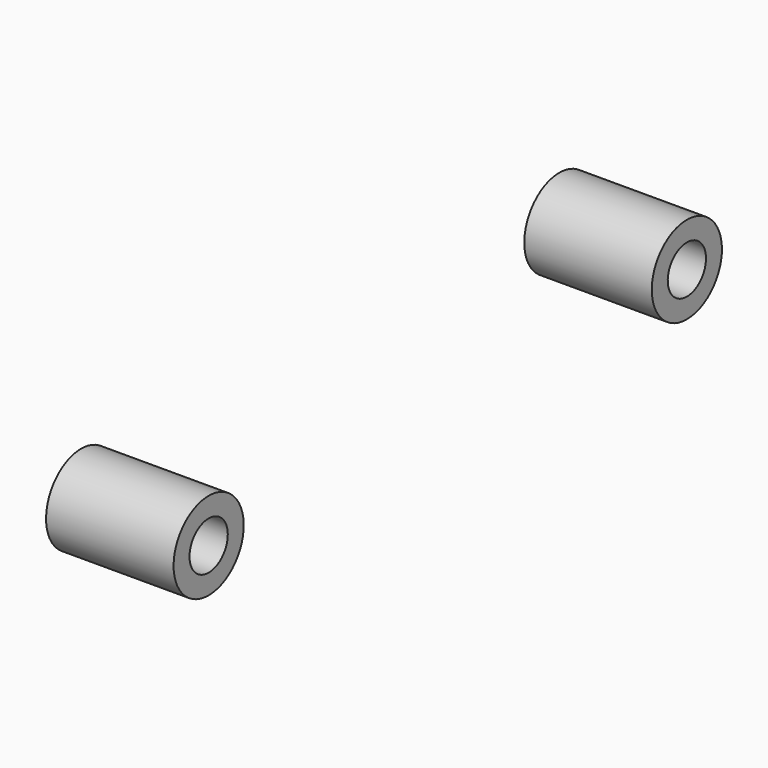
from build123d import *

# Parameters (mm, degrees)
CEN_LM12UU_0_INT_R           = 6
CEN_LM12UU_0_INT_DEPTH       = 34
CEN_LM12UU_0_INT_PITCH_ANGLE = 90
CEN_LM12UU_0_EXT_R           = 11
CEN_LM12UU_0_EXT_DEPTH       = 32
CEN_LM12UU_0_EXT_PITCH_ANGLE = 90


with BuildPart() as cen_lm12uu_0_int:
    # cen_lm12uu_0_int → cen_lm12uu_0_int (new body)
    with BuildSketch(Plane.XY):
        Circle(CEN_LM12UU_0_INT_R)
    extrude(amount=CEN_LM12UU_0_INT_DEPTH)


with BuildPart() as cen_lm12uu_0_int_1:
    # cen_lm12uu_0_int pitch: moved
    add(cen_lm12uu_0_int.part.rotate(Axis((0, 0, 0), (0, 1, 0)), CEN_LM12UU_0_INT_PITCH_ANGLE))


with BuildPart() as cen_lm12uu_0_int_2:
    # cen_lm12uu_0_int placement: moved
    add(cen_lm12uu_0_int_1.part.moved(Location((-17, 0, 0))))


with BuildPart() as cen_lm12uu_0_body:
    # cen_lm12uu_0_ext → cen_lm12uu_0_ext (new body)
    with BuildSketch(Plane.XY):
        Circle(CEN_LM12UU_0_EXT_R)
    extrude(amount=CEN_LM12UU_0_EXT_DEPTH)


with BuildPart() as cen_lm12uu_0_body_1:
    # cen_lm12uu_0_ext pitch: moved
    add(cen_lm12uu_0_body.part.rotate(Axis((0, 0, 0), (0, 1, 0)), CEN_LM12UU_0_EXT_PITCH_ANGLE))


with BuildPart() as cen_lm12uu_0_body_2:
    # cen_lm12uu_0_ext placement: moved
    add(cen_lm12uu_0_body_1.part.moved(Location((-16, 0, 0))))

    # cen_lm12uu_0: cut cen_lm12uu_0_int
    add(cen_lm12uu_0_int_2.part, mode=Mode.SUBTRACT)


with BuildPart() as cen_lm12uu_0_body_3:
    # cen_lm12uu_0 placement: moved
    add(cen_lm12uu_0_body_2.part.moved(Location((0, 75, 0))))


with BuildPart() as clone028:
    # Clone028 base: copy of cen_lm12uu_0 body
    add(cen_lm12uu_0_body_3.part)


with BuildPart() as clone028_1:
    # Clone028 placement: moved
    add(clone028.part.moved(Location((0, -150, 0))))


with BuildPart() as central_slider_bear:
    # central_slider_bear base: copy of cen_lm12uu_0 body
    add(cen_lm12uu_0_body_3.part)

    # central_slider_bear: union Clone028
    add(clone028_1.part)


with BuildPart() as central_slider_bear_1:
    # central_slider_bear placement: moved
    add(central_slider_bear.part.moved(Location((0, 560, 53))))


solid = central_slider_bear_1.part
